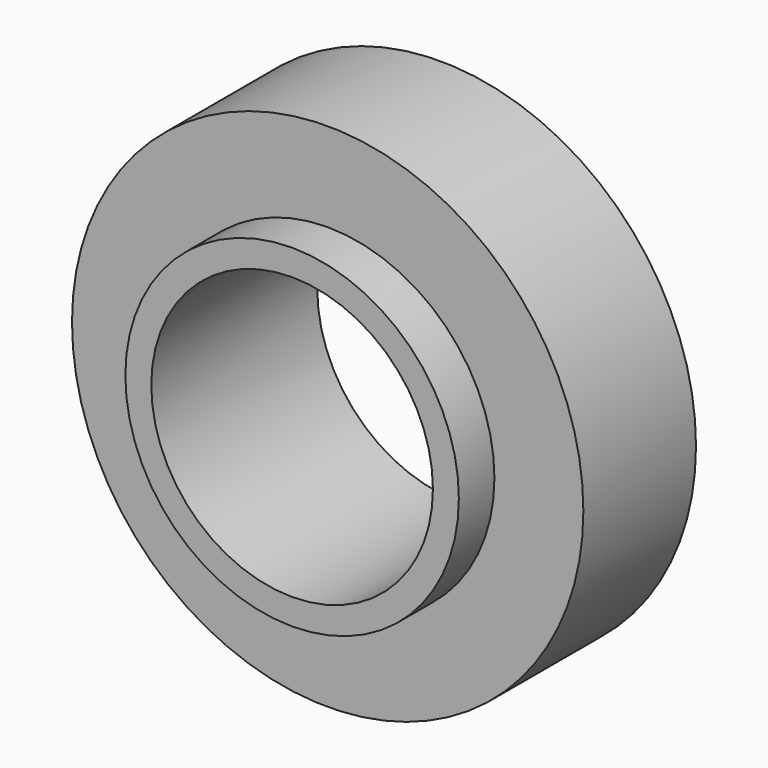
from build123d import *

# Parameters (mm, degrees)
F0_R     = 34.5
F1_DEPTH = 19
F2_R     = 22.5
F3_DEPTH = 6
F4_R     = 30
F5_DEPTH = 3
F6_R     = 19
F7_DEPTH = 28


with BuildPart() as f1:
    # F0 (on Front) → F1 (new body)
    with BuildSketch(Plane.XZ):
        Circle(F0_R)
    extrude(amount=-F1_DEPTH)

    # F2 (on face) → F3 (join)
    with BuildSketch(Plane.XZ):
        Circle(F2_R)
    extrude(amount=F3_DEPTH)

    # F4 (on face) → F5 (join)
    with BuildSketch(Plane(origin=(0, 19, 0), x_dir=(-1, 0, 0), z_dir=(0, 1, 0))):
        Circle(F4_R)
    extrude(amount=F5_DEPTH)

    # F6 (on face) → F7 (cut)
    with BuildSketch(Plane.XZ.offset(6)):
        Circle(F6_R)
    extrude(amount=-F7_DEPTH, mode=Mode.SUBTRACT)


solid = f1.part
